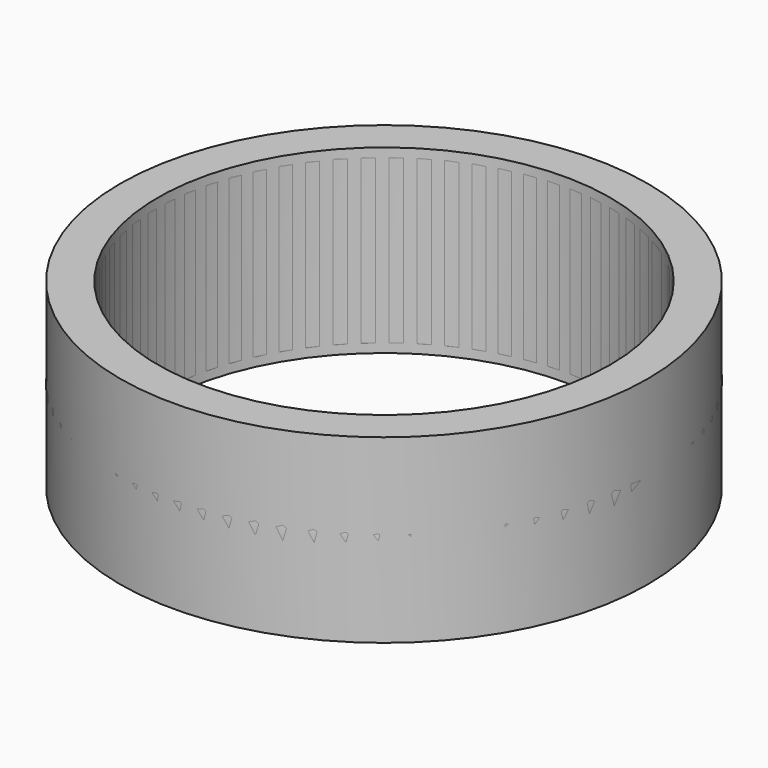
from build123d import *

# Parameters (mm, degrees)
F0_R     = 11.6666666667
F0_R_2   = 10
F1_DEPTH = 8
F4_R     = 0.2


with BuildPart() as f1:
    # F0 (on Top) → F1 (new body)
    with BuildSketch(Plane.XY):
        Circle(F0_R)
        Circle(F0_R_2, mode=Mode.SUBTRACT)
    extrude(amount=F1_DEPTH)


with BuildPart() as f3:
    # F2 (on Front) → F3 (revolve)
    with BuildSketch(Plane.XZ):
        with BuildLine():
            add(Edge.make_bspline(
                [(10, 8), (10.6480475515, 7.6817194931), (11.6666666667, 6.0383775271), (11.6666666667, 4)],
                knots=[0, 0, 0, 0, 4.3333333333, 4.3333333333, 4.3333333333, 4.3333333333], degree=3))
            Line((10, 8), (10, 0))
            add(Edge.make_bspline(
                [(10, 0), (10.6480475515, 0.3182805069), (11.6666666667, 1.9616224729), (11.6666666667, 4)],
                knots=[0, 0, 0, 0, 4.3333333333, 4.3333333333, 4.3333333333, 4.3333333333], degree=3))
        make_face()
    revolve(axis=Axis((0, 0, 4), (0, 0, 1)))

    # F4
    f4_edges = [f3.edges().sort_by_distance(p)[0] for p in [
        (-10, 0, 0),
        (-10, 0, 8),
    ]]
    fillet(f4_edges, radius=F4_R)


solid = Compound([f1.part, f3.part])
